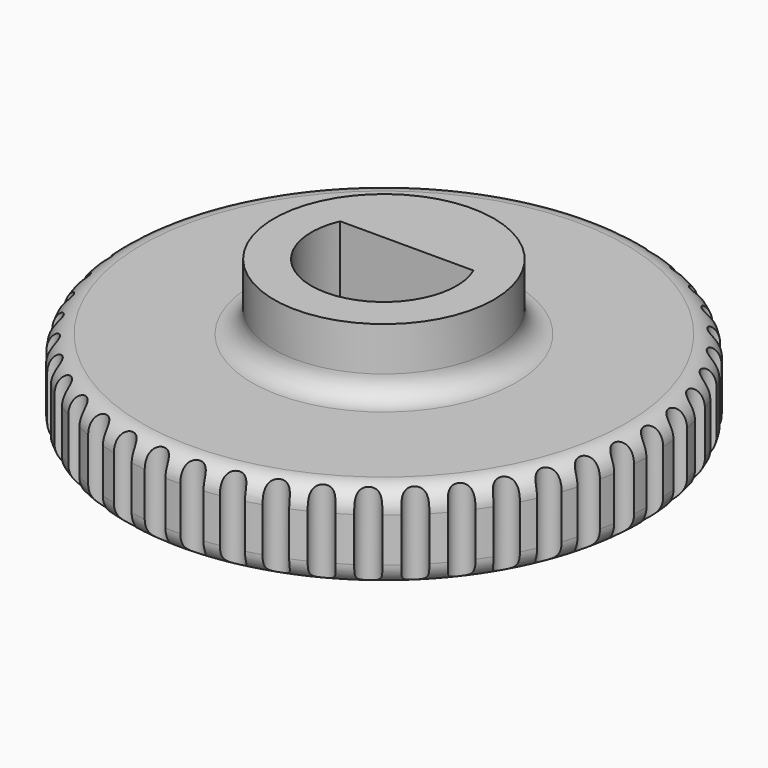
from build123d import *

# Parameters (mm, degrees)
SKETCH_R           = 12
PAD_DEPTH          = 4
SKETCH001_R        = 5
PAD001_DEPTH       = 3
POCKET_DEPTH       = 4
SKETCH003_R        = 3.3
POCKET001_DEPTH    = 3
FILLET_R           = 1
FILLET001_R        = 1
FILLET002_R        = 1
SKETCH004_R        = 0.5
POCKET002_DEPTH    = 5
POLARPATTERN_COUNT = 45


with BuildPart() as part:
    # Sketch → Pad (new body)
    with BuildSketch(Plane.XY):
        Circle(SKETCH_R)
    extrude(amount=PAD_DEPTH)

    # Sketch001 → Pad001 (new body)
    with BuildSketch(Plane.XY.offset(4)):
        Circle(SKETCH001_R)
    extrude(amount=PAD001_DEPTH)

    # Sketch002 → Pocket (cut)
    with BuildSketch(Plane.XY.offset(7)):
        with BuildLine():
            ThreePointArc((-3.03315, 1.3), (0, -3.3), (3.03315, 1.3))
            Line((-3.03315, 1.3), (3.03315, 1.3))
        make_face()
    extrude(amount=-POCKET_DEPTH, mode=Mode.SUBTRACT)

    # Sketch003 → Pocket001 (cut)
    with BuildSketch(Plane(origin=(0, 0, 0), x_dir=(1, 0, 0), z_dir=(0, 0, -1))):
        Circle(SKETCH003_R)
    extrude(amount=-POCKET001_DEPTH, mode=Mode.SUBTRACT)

    # Fillet
    fillet_edges = [part.edges().sort_by_distance(p)[0] for p in [
        (-12, 0, 4),
    ]]
    fillet(fillet_edges, radius=FILLET_R)

    # Fillet001
    fillet001_edges = [part.edges().sort_by_distance(p)[0] for p in [
        (-12, 0, 0),
    ]]
    fillet(fillet001_edges, radius=FILLET001_R)

    # Fillet002
    fillet002_edges = [part.edges().sort_by_distance(p)[0] for p in [
        (-5, 0, 4),
    ]]
    fillet(fillet002_edges, radius=FILLET002_R)

    # Sketch004 → Pocket002 (cut)
    with BuildSketch(Plane.XY.offset(4)):
        with Locations((0, 12)):
            Circle(SKETCH004_R)
    pocket002 = extrude(amount=-POCKET002_DEPTH, mode=Mode.SUBTRACT)

    # PolarPattern: Pocket002 ×45 about axis
    polarpattern_axis = Axis((0, 0, 4), (0, 0, 1))
    for i in range(1, POLARPATTERN_COUNT):
        add(pocket002.rotate(polarpattern_axis, i * 360 / POLARPATTERN_COUNT), mode=Mode.SUBTRACT)


solid = part.part
